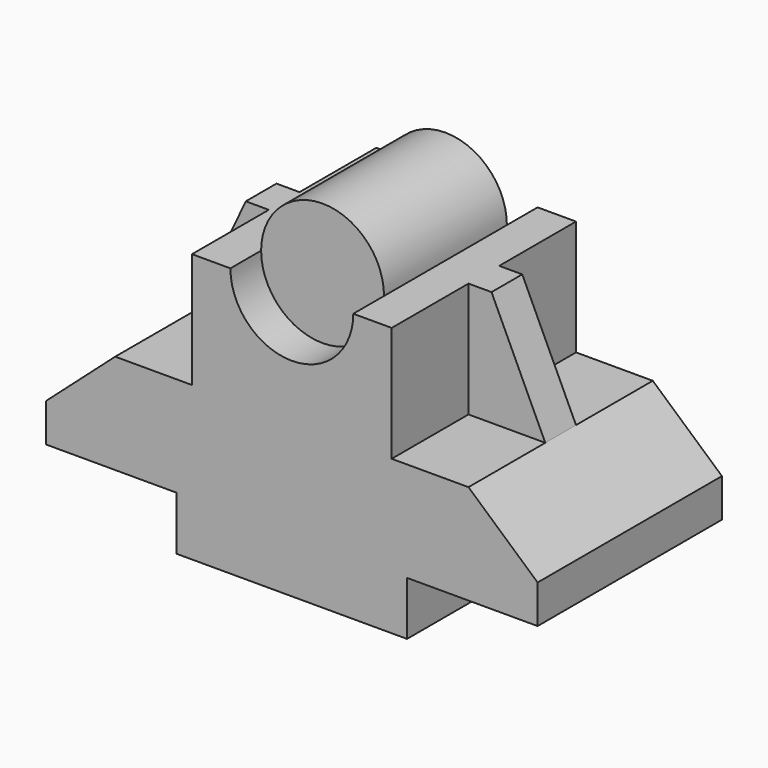
from build123d import *

# Parameters (mm, degrees)
PAD_DEPTH       = 30
SKETCH002_R     = 8
POCKET_DEPTH    = 30
SKETCH003_R     = 8
PAD001_DEPTH    = 25
SKETCH004_R     = 8
POCKET001_DEPTH = 5
PAD002_DEPTH    = 17.5
POCKET002_DEPTH = 12.5


with BuildPart() as part:
    # Sketch → Pad (new body)
    with BuildSketch(Plane.XZ):
        Polygon((-15, -14.95402), (15, -14.95402), (15, -7.95402), (32, -7.95402), (32, -2.95402), (23, 5.04598), (13, 5.04598), (13, 20.04598), (-13, 20.04598), (-13, 5.04598), (-23, 5.04598), (-32, -2.95402), (-32, -7.95402), (-15, -7.95402), align=None)
    extrude(amount=PAD_DEPTH)

    # Sketch002 (on Face16 of Pad) → Pocket (cut)
    with BuildSketch(Plane.XZ.offset(30)):
        with Locations((0, 20.04598)):
            Circle(SKETCH002_R)
    extrude(amount=-POCKET_DEPTH, mode=Mode.SUBTRACT)

    # Sketch003 (on Face5 of Pocket) → Pad001 (join)
    with BuildSketch(Plane.XZ.offset(30)):
        with Locations((0, 20.04598)):
            Circle(SKETCH003_R)
    extrude(amount=-PAD001_DEPTH)

    # Sketch004 (on Face20 of Pad001) → Pocket001 (cut)
    with BuildSketch(Plane.XZ.offset(30)):
        with Locations((0, 20.04598)):
            Circle(SKETCH004_R)
    extrude(amount=-POCKET001_DEPTH, mode=Mode.SUBTRACT)

    # Sketch005 (on Face5 of Pocket001) → Pad002 (join)
    with BuildSketch(Plane.XZ.offset(30)):
        Polygon((-23, 5.04598), (-13, 5.04598), (-13, 20.04598), (-16, 20.04598), align=None)
        Polygon((23, 5.04598), (13, 5.04598), (13, 20.04598), (16, 20.04598), align=None)
    extrude(amount=-PAD002_DEPTH)

    # Sketch006 (on Face24 of Pad002) → Pocket002 (cut)
    with BuildSketch(Plane.XZ.offset(30)):
        Polygon((-23, 5.04598), (-16, 20.04598), (-13, 20.04598), (-13, 5.04598), align=None)
        Polygon((23, 5.04598), (16, 20.04598), (13, 20.04598), (13, 5.04598), align=None)
    extrude(amount=-POCKET002_DEPTH, mode=Mode.SUBTRACT)


solid = part.part
